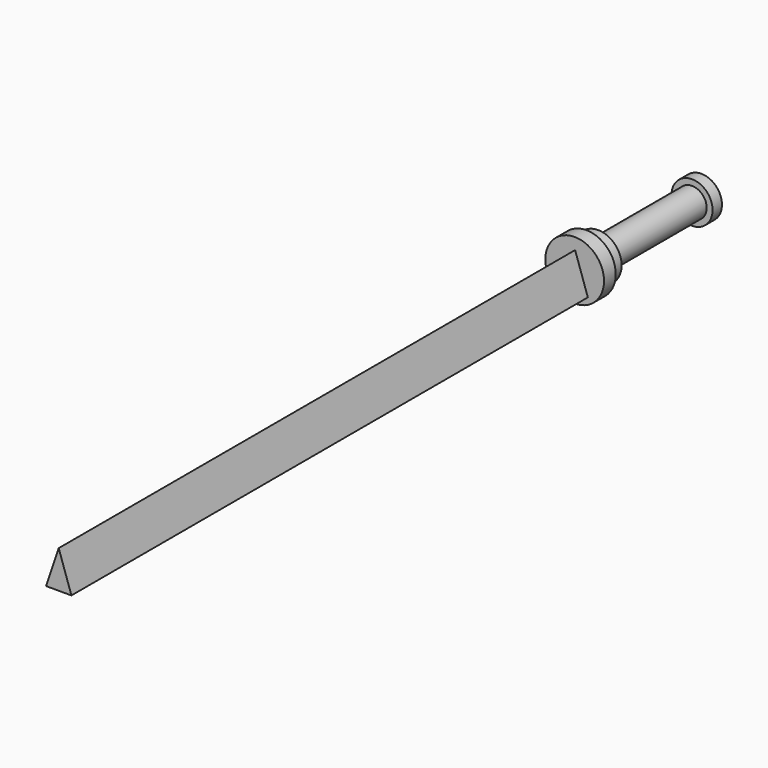
from build123d import *

# Parameters (mm, degrees)
F0_R     = 12.7
F1_DEPTH = 6.35
F2_R     = 10.16
F3_DEPTH = 6.35
F4_R     = 6.35
F5_DEPTH = 50.8
F6_R     = 8.89
F7_DEPTH = 5.08
F9_DEPTH = 279.4


with BuildPart() as f1:
    # F0 (on Front) → F1 (new body)
    with BuildSketch(Plane.XZ):
        with Locations((-96.856251, 20.265313)):
            Circle(F0_R)
    extrude(amount=-F1_DEPTH)

    # F2 (on face) → F3 (join)
    with BuildSketch(Plane(origin=(0, 6.35, 0), x_dir=(-1, 0, 0), z_dir=(0, 1, 0))):
        with Locations((96.856251, 20.265313)):
            Circle(F2_R)
    extrude(amount=F3_DEPTH)

    # F4 (on face) → F5 (join)
    with BuildSketch(Plane(origin=(0, 12.7, 0), x_dir=(-1, 0, 0), z_dir=(0, 1, 0))):
        with Locations((96.856251, 20.265313)):
            Circle(F4_R)
    extrude(amount=F5_DEPTH)

    # F6 (on face) → F7 (join)
    with BuildSketch(Plane(origin=(0, 63.5, 0), x_dir=(-1, 0, 0), z_dir=(0, 1, 0))):
        with Locations((96.856251, 20.265313)):
            Circle(F6_R)
    extrude(amount=F7_DEPTH)

    # F8 (on face) → F9 (join)
    with BuildSketch(Plane.XZ):
        Polygon((-96.659377, 28.0142), (-102.123946, 11.775506), (-91.156051, 11.775506), align=None)
    extrude(amount=F9_DEPTH)


solid = f1.part
